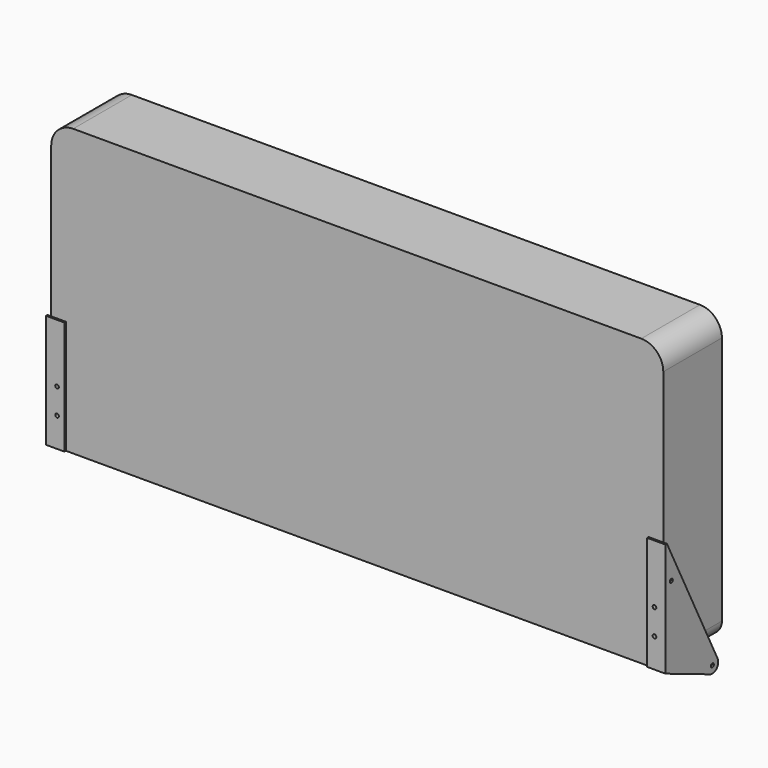
from build123d import *

# Parameters (mm, degrees)
F0_W     = 298.45
F0_H     = 495.3
F0_W_2   = 222.25
F1_DEPTH = 127
F2_D     = 6.35
F2_DEPTH = 25.4
F2_TIP   = 1.9077324654
F4_DEPTH = 3.175
F5_D     = 6.35
F6_W     = 3.175
F6_H     = 196.85
F7_DEPTH = 3.175
F8_D     = 6.35


with BuildPart() as f1:
    # F0 (on Front) → F1 (new body)
    with BuildSketch(Plane.XZ):
        with BuildLine():
            Line((415.925, 0), (504.825, 0))
            ThreePointArc((504.825, 0), (522.7855122421, 7.4394877579), (530.225, 25.4))
            Line((530.225, 25.4), (530.225, 457.2))
            ThreePointArc((530.225, 457.2), (519.0657683632, 484.1407683632), (492.125, 495.3))
            Line((492.125, 495.3), (415.925, 495.3))
            Line((415.925, 495.3), (415.925, 0))
        make_face()
        with Locations((266.7, 247.65)):
            Rectangle(F0_W, F0_H)
        with Locations((6.35, 247.65)):
            Rectangle(F0_W_2, F0_H)
        with Locations((-254, 247.65)):
            Rectangle(F0_W, F0_H)
        with BuildLine():
            Line((-504.825, 0), (-403.225, 0))
            Line((-403.225, 0), (-403.225, 495.3))
            Line((-403.225, 495.3), (-492.125, 495.3))
            ThreePointArc((-492.125, 495.3), (-519.0657683632, 484.1407683632), (-530.225, 457.2))
            Line((-530.225, 457.2), (-530.225, 25.4))
            ThreePointArc((-530.225, 25.4), (-522.7855122421, 7.4394877579), (-504.825, 0))
        make_face()
    extrude(amount=-F1_DEPTH)

    # F2
    with Locations(Plane.XZ):
        with Locations((-517.525, 95.25), (-517.525, 50.8), (517.525, 95.25), (517.525, 50.8)):
            Hole(F2_D / 2, depth=F2_DEPTH)
            with Locations((0, 0, -(F2_DEPTH + F2_TIP / 2))):  # 118° drill point
                Cone(0, F2_D / 2, F2_TIP, mode=Mode.SUBTRACT)


with BuildPart() as f4:
    # F3 (on face) → F4 (new body)
    with BuildSketch(Plane.XZ):
        with BuildLine():
            Line((530.225, 196.85), (504.825, 196.85))
            Line((504.825, 196.85), (504.825, 0))
            ThreePointArc((504.825, 0), (522.7855122421, 7.4394877579), (530.225, 25.4))
            Line((530.225, 25.4), (530.225, 196.85))
        make_face()
        with BuildLine():
            Line((536.575, 196.85), (530.225, 196.85))
            Line((530.225, 196.85), (530.225, 25.4))
            ThreePointArc((530.225, 25.4), (522.7855122421, 7.4394877579), (504.825, 0))
            Line((504.825, 0), (536.575, 0))
            Line((536.575, 0), (536.575, 196.85))
        make_face()
    extrude(amount=F4_DEPTH)

    # F5 (through all)
    with Locations(Plane(origin=(0, 0, 0), x_dir=(1, 0, 0), z_dir=(0, 1, 0))):
        with Locations((517.525, -95.25), (517.525, -50.8)):
            Hole(F5_D / 2)

    # F6 (on face) → F7 (join)
    with BuildSketch(Plane.YZ.offset(536.575)):
        with BuildLine():
            Line((-3.175, 0), (93.5403846154, -40.2980769231))
            ThreePointArc((93.5403846154, -40.2980769231), (107.7076520014, -37.2423162986), (109.7860542815, -22.8990467222))
            Line((109.7860542815, -22.8990467222), (0, 196.85))
            Line((0, 196.85), (0, 0))
            Line((0, 0), (-3.175, 0))
        make_face()
        with Locations((-1.5875, 98.425)):
            Rectangle(F6_W, F6_H)
    extrude(amount=-F7_DEPTH)

    # F8 (through all)
    with Locations(Plane.YZ.offset(536.575)):
        with Locations((98.425, -28.575), (9.525, 136.525)):
            Hole(F8_D / 2)


with BuildPart() as f9_1:
    # F9: instance of F4
    add(f4.part.mirror(Plane.YZ))


solid = Compound([f1.part, f4.part, f9_1.part])
